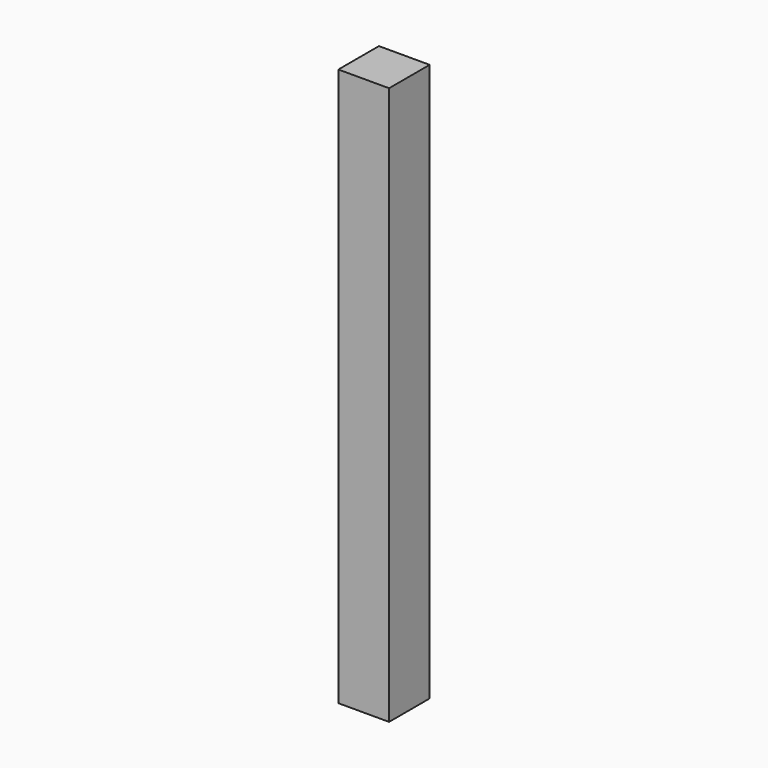
from build123d import *

# Parameters (mm, degrees)
SKETCH_W  = 20
SKETCH_H  = 20
PAD_DEPTH = 220


with BuildPart() as part:
    # Sketch → Pad (new body)
    with BuildSketch(Plane.XY):
        with Locations((10, -10)):
            Rectangle(SKETCH_W, SKETCH_H)
    extrude(amount=PAD_DEPTH)


solid = part.part
